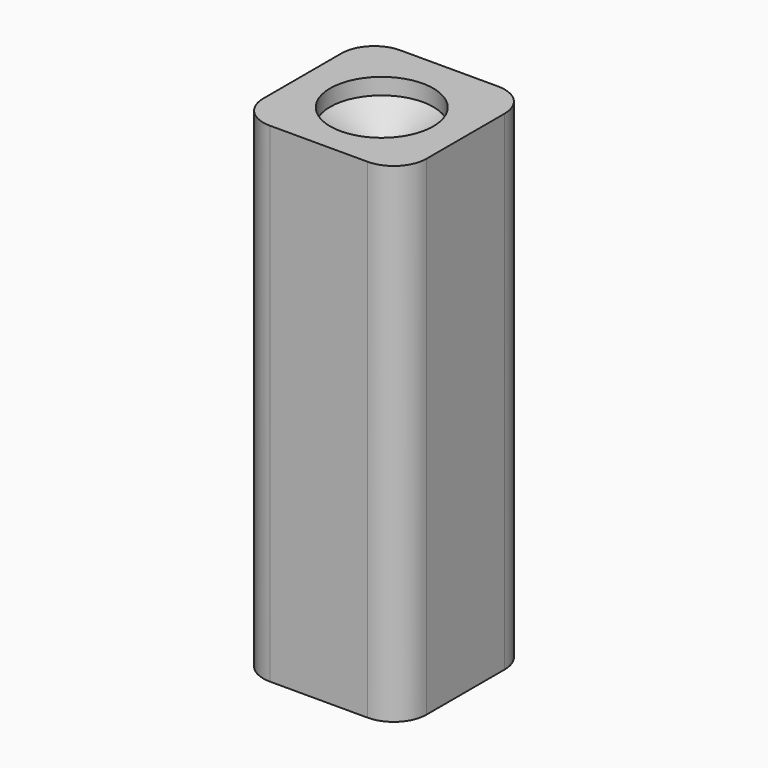
from build123d import *

# Parameters (mm, degrees)
F0_W     = 25
F0_H     = 25
F1_DEPTH = 75
F4_D     = 15.8
F4_DEPTH = 2.5
F4_TIP   = 4.7467988903
F5_D     = 15.8
F5_DEPTH = 2.5
F5_TIP   = 4.7467988903
F6_R     = 5


with BuildPart() as f1:
    # F0 (on Top) → F1 (new body)
    with BuildSketch(Plane.XY):
        with Locations((0, 0.4354127725)):
            Rectangle(F0_W, F0_H)
    extrude(amount=F1_DEPTH)

    # F4
    with Locations(Plane(origin=(0, 0, 0), x_dir=(1, 0, 0), z_dir=(0, 0, -1))):
        with Locations((0, 0)):
            Hole(F4_D / 2, depth=F4_DEPTH)
            with Locations((0, 0, -(F4_DEPTH + F4_TIP / 2))):  # 118° drill point
                Cone(0, F4_D / 2, F4_TIP, mode=Mode.SUBTRACT)

    # F5
    with Locations(Plane.XY.offset(75)):
        with Locations((0, 0)):
            Hole(F5_D / 2, depth=F5_DEPTH)
            with Locations((0, 0, -(F5_DEPTH + F5_TIP / 2))):  # 118° drill point
                Cone(0, F5_D / 2, F5_TIP, mode=Mode.SUBTRACT)

    # F6
    f6_edges = [f1.edges().sort_by_distance(p)[0] for p in [
        (-12.5, 12.935413, 37.5),
        (-12.5, -12.064587, 37.5),
        (12.5, -12.064587, 37.5),
        (12.5, 12.935413, 37.5),
    ]]
    fillet(f6_edges, radius=F6_R)


solid = f1.part
